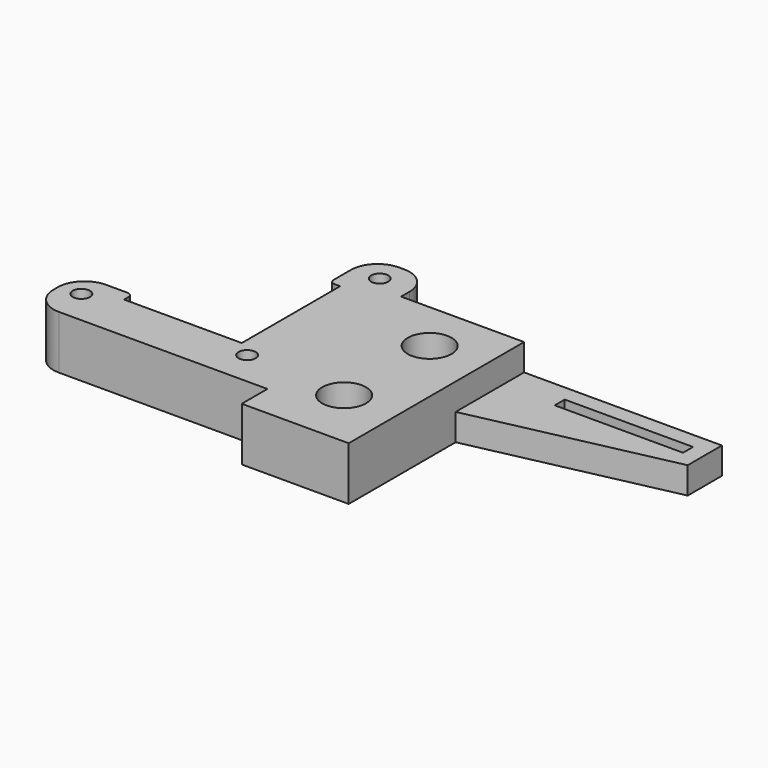
from build123d import *

# Parameters (mm, degrees)
SKETCH_R     = 4.1
SKETCH_R_2   = 1.6
SKETCH_W     = 24
SKETCH_H     = 2.341385
PAD_DEPTH    = 10
SKETCH001_W  = 16
SKETCH001_H  = 5
POCKET_DEPTH = 37
FILLET_R     = 5
FILLET001_R  = 1


with BuildPart() as part:
    # Sketch → Pad (new body)
    with BuildSketch(Plane(origin=(0, -80, 0), x_dir=(-1, 0, 0), z_dir=(0, 0, -1))):
        Polygon((0, 0), (-20, 0), (-20, 25), (-57, 33), (-57, 41), (3, 41), (3, 48), (14, 48), (14, 38), (12, 38), (12, 15), (34, 15), (34, 17), (44, 17), (44, 6), (0, 6), align=None)
        with Locations((-10, 11.430889)):
            Circle(SKETCH_R, mode=Mode.SUBTRACT)
        with Locations((-10, 31.430889)):
            Circle(SKETCH_R, mode=Mode.SUBTRACT)
        with Locations((9, 43.5)):
            Circle(SKETCH_R_2, mode=Mode.SUBTRACT)
        with Locations((9, 12.5)):
            Circle(SKETCH_R_2, mode=Mode.SUBTRACT)
        with Locations((40, 12.5)):
            Circle(SKETCH_R_2, mode=Mode.SUBTRACT)
        with Locations((-42, 36.829307)):
            Rectangle(SKETCH_W, SKETCH_H, mode=Mode.SUBTRACT)
    extrude(amount=PAD_DEPTH)

    # Sketch001 → Pocket (cut)
    with BuildSketch(Plane(origin=(57, -80, 0), x_dir=(0, -1, 0), z_dir=(1, 0, 0))):
        with Locations((-33, 2.5)):
            Rectangle(SKETCH001_W, SKETCH001_H)
    extrude(amount=-POCKET_DEPTH, mode=Mode.SUBTRACT)

    # Fillet
    fillet_edges = [part.edges().sort_by_distance(p)[0] for p in [
        (-44, -74, -5),
        (-44, -63, -5),
        (-14, -32, -5),
        (-3, -32, -5),
    ]]
    fillet(fillet_edges, radius=FILLET_R)

    # Fillet001
    fillet001_edges = [part.edges().sort_by_distance(p)[0] for p in [
        (-34, -63, -5),
        (-14, -42, -5),
    ]]
    fillet(fillet001_edges, radius=FILLET001_R)


solid = part.part
